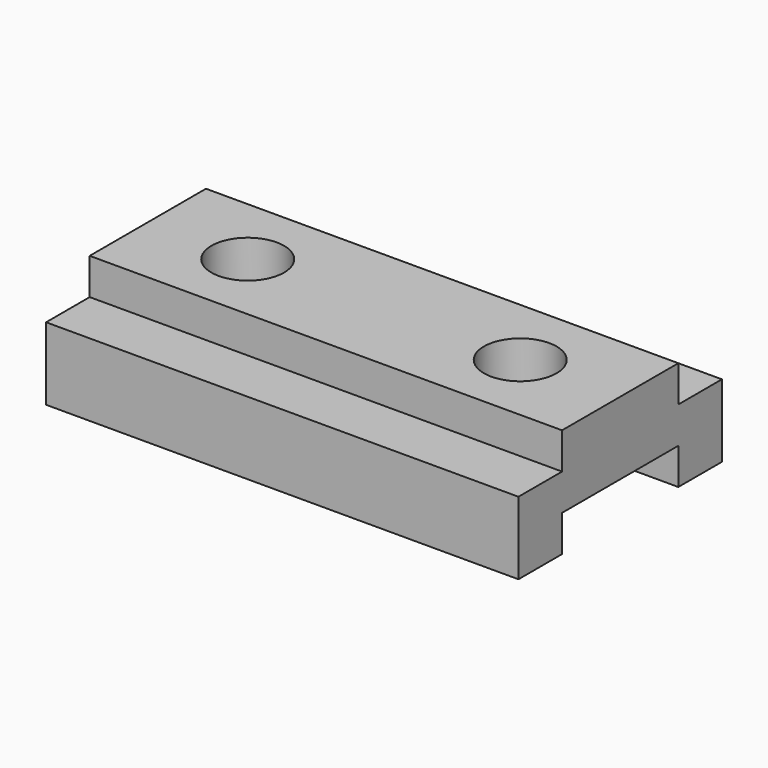
from build123d import *

# Parameters (mm, degrees)
F1_DEPTH = 165.1
F2_W     = 50.8
F2_H     = 12.7
F3_DEPTH = 165.101
F4_R     = 12.7
F5_DEPTH = 38.101


with BuildPart() as f1:
    # F0 (on Right) → F1 (new body)
    with BuildSketch(Plane.YZ):
        Polygon((0, 25.4), (0, 0), (88.9, 0), (88.9, 25.4), (69.85, 25.4), (69.85, 38.1), (19.05, 38.1), (19.05, 25.4), align=None)
    extrude(amount=F1_DEPTH)

    # F2 (on face) → F3 (cut, through all)
    with BuildSketch(Plane.YZ.offset(165.1)):
        with Locations((44.45, 6.35)):
            Rectangle(F2_W, F2_H)
    extrude(amount=-F3_DEPTH, mode=Mode.SUBTRACT)

    # F4 (on face) → F5 (cut, through all)
    with BuildSketch(Plane.XY.offset(38.1)):
        with Locations((34.925, 44.45)):
            Circle(F4_R)
        with Locations((130.175, 44.45)):
            Circle(F4_R)
    extrude(amount=-F5_DEPTH, mode=Mode.SUBTRACT)


solid = f1.part
